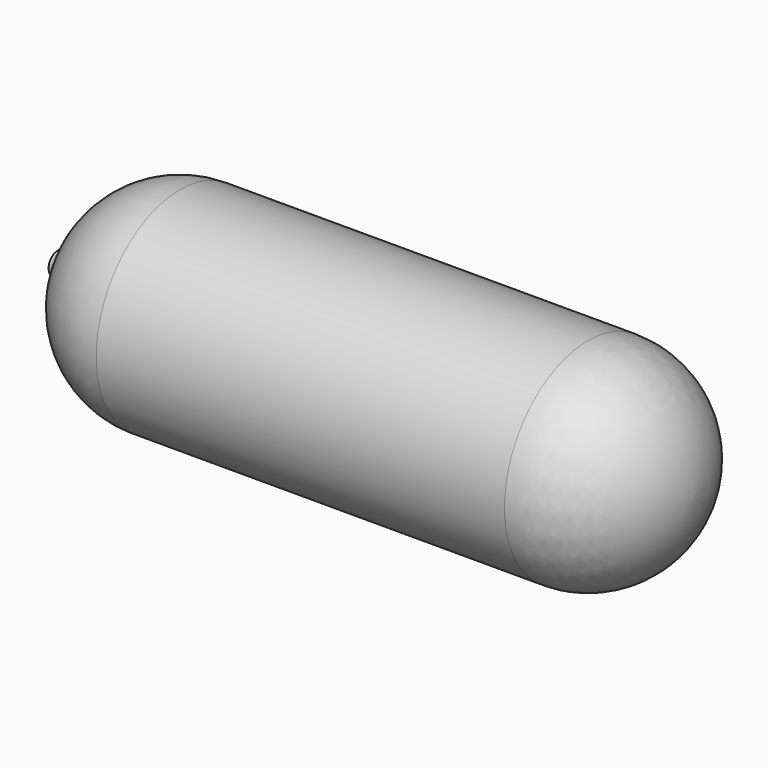
from build123d import *

# Parameters (mm, degrees)
F3_R     = 5.08
F4_R     = 5.08
F2_R     = 8.5725
F5_DEPTH = 25.4


with BuildPart() as f1:
    # F0 (on Top) → F1 (revolve)
    with BuildSketch(Plane.XY):
        with BuildLine():
            ThreePointArc((-299.898593, 0), (-270.140642, 71.842049), (-198.298593, 101.6))
            Line((-198.298593, 101.6), (208.101407, 101.6))
            ThreePointArc((208.101407, 101.6), (279.943456, 71.842049), (309.701407, 0))
            Line((309.701407, 0), (312.241407, 0))
            ThreePointArc((312.241407, 0), (281.739507, 73.6381), (208.101407, 104.14))
            Line((208.101407, 104.14), (-198.298593, 104.14))
            ThreePointArc((-198.298593, 104.14), (-267.300627, 77.999095), (-301.661302, 12.7))
            Line((-301.661302, 12.7), (-321.488593, 12.7))
            Line((-321.488593, 12.7), (-321.488593, 0))
            Line((-321.488593, 0), (-302.438593, 0))
            Line((-302.438593, 0), (-299.898593, 0))
        make_face()
    revolve(axis=Axis((258.901407, 0, 0), (1, 0, 0)))

    # F3
    f3_edges = [f1.edges().sort_by_distance(p)[0] for p in [
        (-321.488593, -12.7, 0),
    ]]
    fillet(f3_edges, radius=F3_R)

    # F4
    f4_edges = [f1.edges().sort_by_distance(p)[0] for p in [
        (-301.661302, -12.7, 0),
    ]]
    fillet(f4_edges, radius=F4_R)

    # F2 (on face) → F5 (cut)
    with BuildSketch(Plane(origin=(-321.488593, 0, 0), x_dir=(0, -1, 0), z_dir=(-1, 0, 0))):
        Circle(F2_R)
    extrude(amount=-F5_DEPTH, mode=Mode.SUBTRACT)


solid = f1.part
